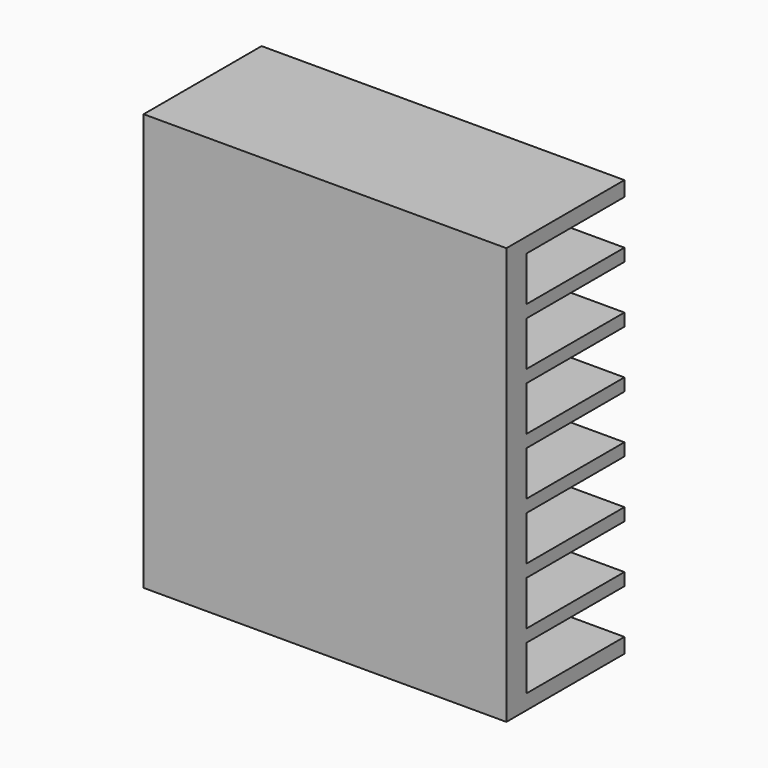
from build123d import *

# Parameters (mm, degrees)
F0_W     = 27.178
F0_H     = 31.242
F1_DEPTH = 11.049
F2_W     = 27.178
F2_H     = 3.338286
F2_H_2   = 3.338285
F3_DEPTH = 9.144


with BuildPart() as f1:
    # F0 (on Front) → F1 (new body)
    with BuildSketch(Plane.XZ):
        Rectangle(F0_W, F0_H)
    extrude(amount=F1_DEPTH)

    # F2 (on face) → F3 (cut)
    with BuildSketch(Plane(origin=(0, 0, 0), x_dir=(-1, 0, 0), z_dir=(0, 1, 0))):
        with Locations((0, 12.834257)):
            Rectangle(F2_W, F2_H)
        with Locations((0, 8.556171)):
            Rectangle(F2_W, F2_H_2)
        with Locations((0, 4.278086)):
            Rectangle(F2_W, F2_H)
        Rectangle(F2_W, F2_H)
        with Locations((0, -4.278086)):
            Rectangle(F2_W, F2_H)
        with Locations((0, -8.556171)):
            Rectangle(F2_W, F2_H_2)
        with Locations((0, -12.834257)):
            Rectangle(F2_W, F2_H)
    extrude(amount=-F3_DEPTH, mode=Mode.SUBTRACT)


solid = f1.part
